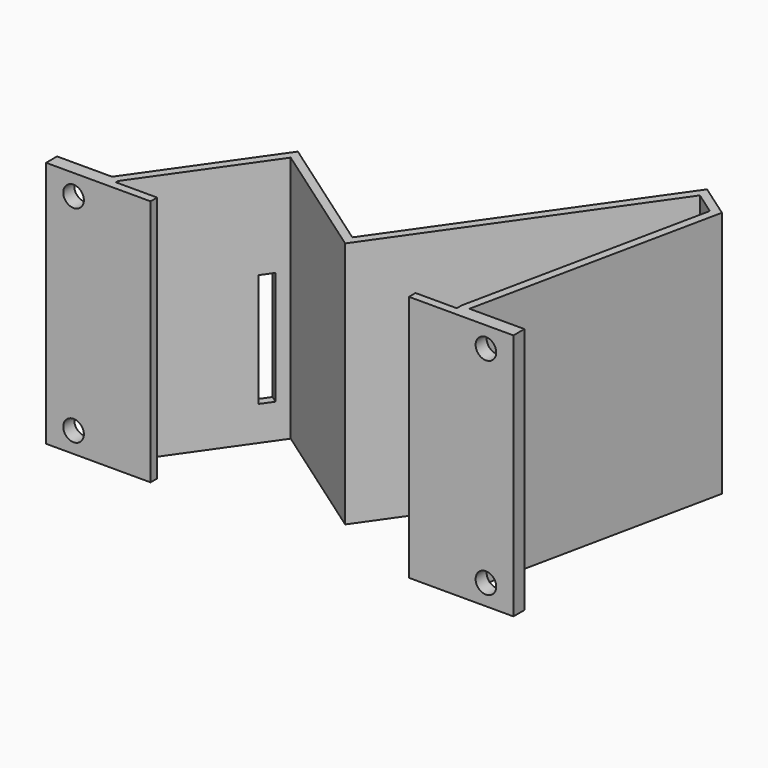
from build123d import *

# Parameters (mm, degrees)
F0_W     = 4
F0_H     = 2
F1_DEPTH = 36
F0_W_2   = 37.6
F0_H_2   = 1.2
F2_DEPTH = 36
F3_R     = 1.5
F4_DEPTH = 3
F5_W     = 2
F5_H     = 16.5
F6_DEPTH = 2
F8_DEPTH = 25


with BuildPart() as f1:
    # F0 (on Top) → F1 (new body)
    with BuildSketch(Plane.XY):
        Polygon((-39.799847, 0), (-35.799847, 0), (-31.799847, 0), (-31.799847, 2), (-39.799847, 2), align=None)
        with Locations((22.200153, 1)):
            Rectangle(F0_W, F0_H)
        with Locations((26.200153, 1)):
            Rectangle(F0_W, F0_H)
        Polygon((-31.799847, 2), (-31.799847, 0), (-24.599847, 0), (-24.599847, 1.2), (-30.599847, 1.2), (-30.599847, 1.621641), (-18.886474, 18.350071), (-0.865129, 5.731389), (23.225081, 40.135775), (26.507962, 37.837077), (19.000153, 2.124774), (19.000153, 1.2), (13.000153, 1.2), (13.000153, 0), (20.200153, 0), (20.200153, 2), (27.845302, 38.365591), (22.93039, 41.807049), (-1.15982, 7.402663), (-19.181165, 20.021345), align=None)
    extrude(amount=F1_DEPTH)

    # F0 (on Top) → F2 (cut)
    with BuildSketch(Plane.XY):
        with Locations((-5.799847, 0.6)):
            Rectangle(F0_W_2, F0_H_2)
    extrude(amount=-F2_DEPTH, mode=Mode.SUBTRACT)

    # F3 (on face) → F4 (cut)
    with BuildSketch(Plane.XZ):
        with Locations((-35.799847, 33)):
            Circle(F3_R)
        with Locations((24.200153, 33)):
            Circle(F3_R)
        with Locations((24.200153, 3)):
            Circle(F3_R)
        with Locations((-35.799847, 3)):
            Circle(F3_R)
    extrude(amount=-F4_DEPTH, mode=Mode.SUBTRACT)

    # F5 (on face) → F6 (cut)
    with BuildSketch(Plane(origin=(-22.27771, 15.599021, 0), x_dir=(-0.573576, -0.819152, 0), z_dir=(-0.819152, 0.573576, 0))):
        with Locations((-1.398661, 13.25)):
            Rectangle(F5_W, F5_H)
    extrude(amount=-F6_DEPTH, mode=Mode.SUBTRACT)

    # F7 (on face) → F8 (cut)
    with BuildSketch(Plane(origin=(26.498464, 37.843728, 0), x_dir=(0.819152, -0.573576, 0), z_dir=(-0.573576, -0.819152, 0))):
        Polygon((-2.992234, 5), (-1.992234, 5), (-0.992234, 5), (-0.992234, 21.5), (-2.992234, 21.5), align=None)
    extrude(amount=-F8_DEPTH, mode=Mode.SUBTRACT)


solid = f1.part
